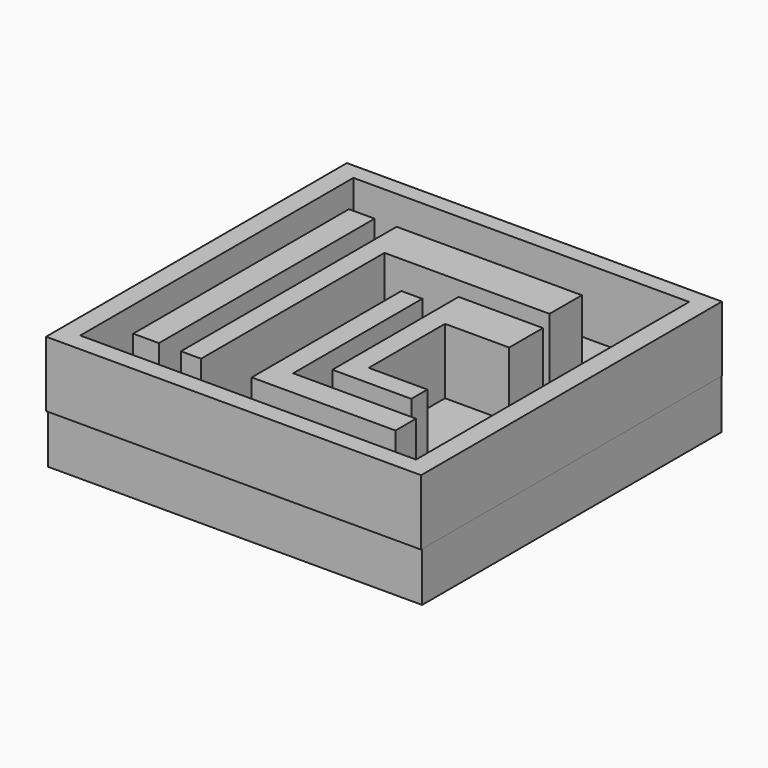
from build123d import *

# Parameters (mm, degrees)
F0_W     = 25.4
F0_H     = 3.358979
F1_DEPTH = 25.4
F3_DEPTH = 4.445
F4_W     = 1.742139
F4_H     = 18.292457
F5_DEPTH = 4.445


with BuildPart() as f1:
    # F0 (on Front) → F1 (new body)
    with BuildSketch(Plane.XZ):
        with Locations((1.297712, -1.679489)):
            Rectangle(F0_W, F0_H)
    extrude(amount=F1_DEPTH)

    # F2 (on Top) → F3 (join)
    with BuildSketch(Plane.XY):
        Polygon((-10.09671, -1.113531), (-11.425932, 0), (-11.425932, -25.514245), (-10.09671, -24.279967), align=None)
        Polygon((14.01917, 0), (-11.425932, 0), (-10.09671, -1.113531), (12.689948, -1.113531), align=None)
        Polygon((14.01917, -25.514245), (14.01917, 0), (12.689948, -1.113531), (12.689948, -24.279967), align=None)
        Polygon((-10.09671, -24.279967), (-11.425932, -25.514245), (14.01917, -25.514245), (12.689948, -24.279967), align=None)
    extrude(amount=F3_DEPTH)

    # F4 (on Top) → F5 (join)
    with BuildSketch(Plane.XY):
        with Locations((-7.166284, -13.211324)):
            Rectangle(F4_W, F4_H)
        Polygon((7.766334, -4.065096), (0, -4.065096), (-4.801954, -4.065096), (-4.801954, -22.357553), (-3.433129, -22.357553), (-3.433129, -6.802742), (7.766334, -6.802742), align=None)
        Polygon((1.41997, -9.664828), (0, -9.664828), (0, -22.357553), (9.757349, -22.357553), (9.757349, -20.615416), (1.41997, -20.615416), align=None)
        Polygon((8.512964, -11.15809), (8.512964, -8.296004), (2.788794, -8.296004), (2.788794, -18.997714), (8.139649, -18.997714), (8.139649, -17.628891), (4.157616, -17.628891), (4.157616, -11.15809), align=None)
    extrude(amount=F5_DEPTH)


solid = f1.part
